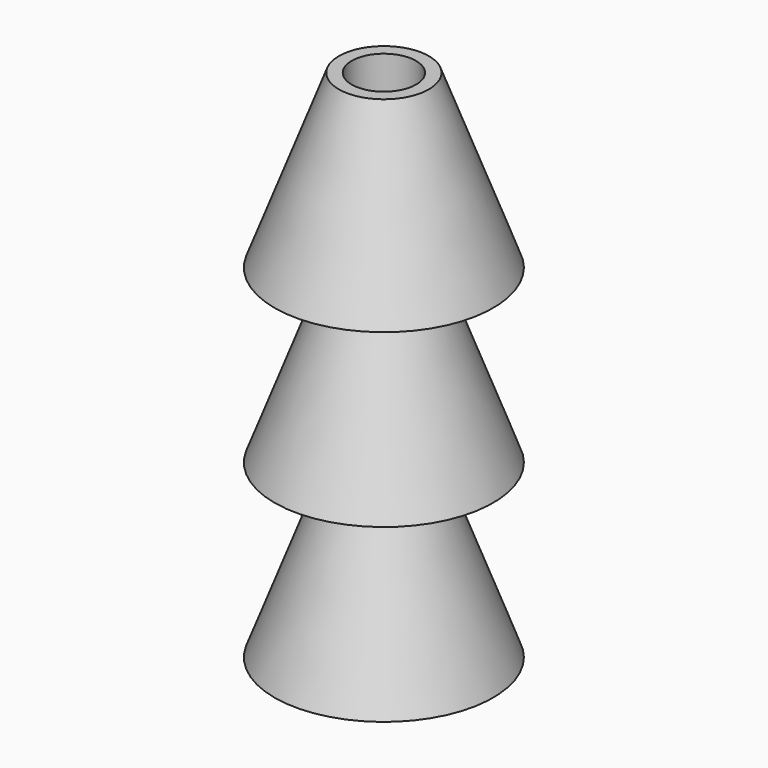
from build123d import *

# Parameters (mm, degrees)
F2_R     = 5
F3_DEPTH = 80.001


with BuildPart() as f1:
    # F0 (on Front) → F1 (revolve)
    with BuildSketch(Plane.XZ):
        Polygon((0, 40), (-7, 40), (-17, 13.333333), (-7, 13.333333), (-17, -13.333333), (-7, -13.333333), (-17, -40), (-7, -40), (0, -40), align=None)
    revolve(axis=Axis((0, 0, 0), (0, 0, -1)))

    # F2 (on face) → F3 (cut, through all)
    with BuildSketch(Plane.XY.offset(40)):
        Circle(F2_R)
    extrude(amount=-F3_DEPTH, mode=Mode.SUBTRACT)


solid = f1.part
